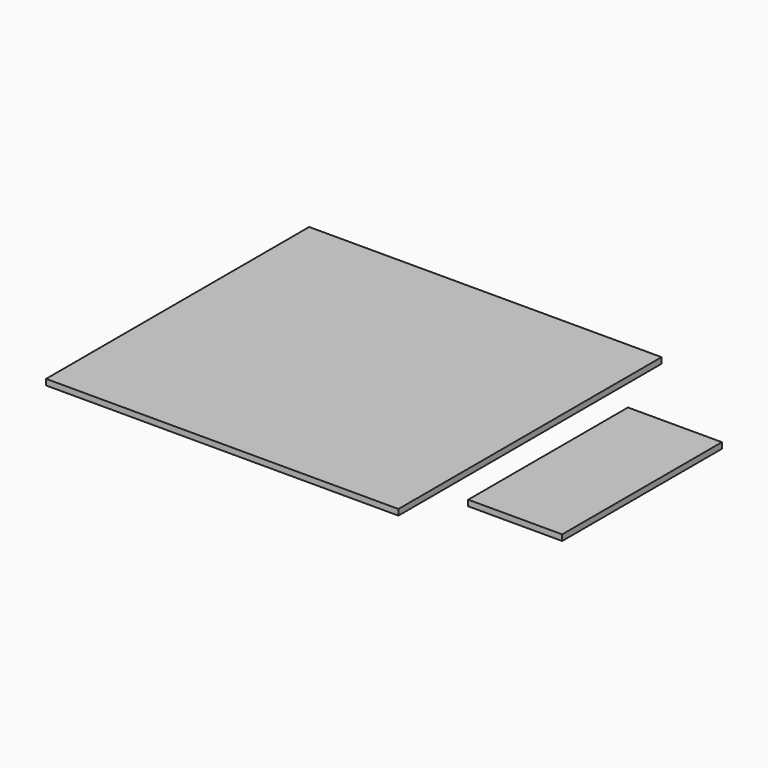
from build123d import *

# Parameters (mm, degrees)
F0_W     = 190.5
F0_H     = 177.8
F0_W_2   = 50.8
F0_H_2   = 107.95
F1_DEPTH = 3.175


with BuildPart() as f1:
    # F0 (on Top) → F1 (new body)
    with BuildSketch(Plane.XY):
        with Locations((-9.457141, -44.113374)):
            Rectangle(F0_W, F0_H)
        with Locations((128.873604, -53.975)):
            Rectangle(F0_W_2, F0_H_2)
    extrude(amount=F1_DEPTH)


solid = f1.part
